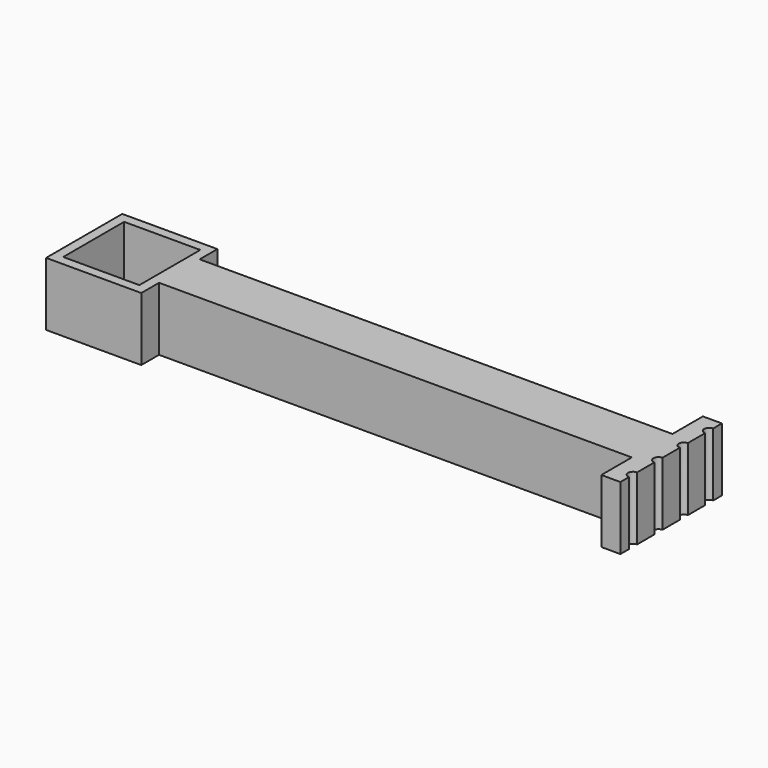
from build123d import *

# Parameters (mm, degrees)
F0_W     = 60
F0_H     = 60
F1_DEPTH = 25


with BuildPart() as f1:
    # F0 (on Top) → F1 (new body, symmetric)
    with BuildSketch(Plane.XY):
        with BuildLine():
            Line((37.5, 20), (37.5, 37.5))
            Line((37.5, 37.5), (-37.5, 37.5))
            Line((-37.5, 37.5), (-37.5, -37.5))
            Line((-37.5, -37.5), (37.5, -37.5))
            Line((37.5, -37.5), (37.5, -20))
            Line((37.5, -20), (410, -20))
            Line((410, -20), (410, -50))
            Line((410, -50), (425, -50))
            Line((425, -50), (425, -41.45))
            ThreePointArc((425, -41.45), (421.05, -37.5), (425, -33.55))
            Line((425, -33.55), (425, -16.45))
            ThreePointArc((425, -16.45), (421.05, -12.5), (425, -8.55))
            Line((425, -8.55), (425, 0))
            Line((425, 0), (425, 8.55))
            ThreePointArc((425, 8.55), (421.05, 12.5), (425, 16.45))
            Line((425, 16.45), (425, 33.55))
            ThreePointArc((425, 33.55), (421.05, 37.5), (425, 41.45))
            Line((425, 41.45), (425, 50))
            Line((425, 50), (410, 50))
            Line((410, 50), (410, 20))
            Line((410, 20), (37.5, 20))
        make_face()
        Rectangle(F0_W, F0_H, mode=Mode.SUBTRACT)
    extrude(amount=F1_DEPTH, both=True)


solid = f1.part
